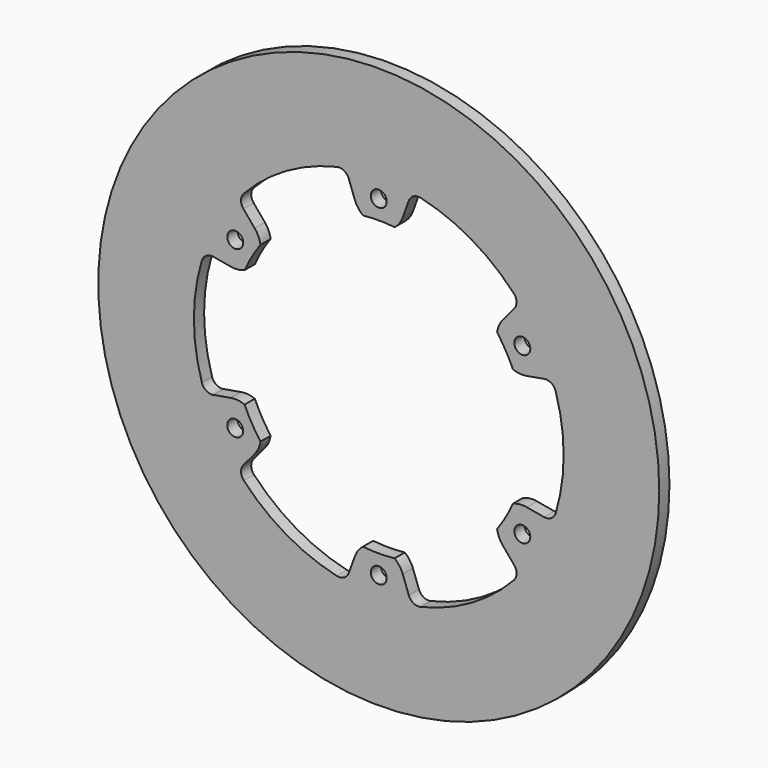
from build123d import *

# Parameters (mm, degrees)
F0_R     = 139.7
F0_R_2   = 3.96875
F1_DEPTH = 6.35


with BuildPart() as f1:
    # F0 (on Front) → F1 (new body)
    with BuildSketch(Plane.XZ):
        Circle(F0_R)
        with Locations((-71.490397, -41.275)):
            Circle(F0_R_2, mode=Mode.SUBTRACT)
        with Locations((0, -82.55)):
            Circle(F0_R_2, mode=Mode.SUBTRACT)
        with Locations((71.490397, -41.275)):
            Circle(F0_R_2, mode=Mode.SUBTRACT)
        with Locations((-71.490397, 41.275)):
            Circle(F0_R_2, mode=Mode.SUBTRACT)
        with BuildLine():
            ThreePointArc((-67.231483, 62.910519), (-46.0375, 79.739289), (-20.866366, 89.679431))
            ThreePointArc((-20.866366, 89.679431), (-17.294985, 89.198071), (-14.94148, 86.469063))
            Line((-14.94148, 86.469063), (-11.934096, 78.206344))
            ThreePointArc((-11.934096, 78.206344), (-10.300747, 75.121366), (-7.889211, 72.597596))
            ThreePointArc((-7.889211, 72.597596), (0, 73.025), (7.889211, 72.597596))
            ThreePointArc((7.889211, 72.597596), (10.300747, 75.121366), (11.934096, 78.206344))
            Line((11.934096, 78.206344), (14.94148, 86.469063))
            ThreePointArc((14.94148, 86.469063), (17.294985, 89.198071), (20.866366, 89.679431))
            ThreePointArc((20.866366, 89.679431), (46.0375, 79.739289), (67.231483, 62.910519))
            ThreePointArc((67.231483, 62.910519), (68.600303, 59.576932), (67.413665, 56.174233))
            Line((67.413665, 56.174233), (61.761633, 49.438403))
            ThreePointArc((61.761633, 49.438403), (59.906638, 46.481392), (58.926757, 43.131056))
            ThreePointArc((58.926757, 43.131056), (63.241505, 36.5125), (66.815968, 29.466541))
            ThreePointArc((66.815968, 29.466541), (70.207385, 28.639974), (73.695729, 28.767942))
            Line((73.695729, 28.767942), (82.355145, 30.29483))
            ThreePointArc((82.355145, 30.29483), (85.895288, 29.621139), (88.097849, 26.768912))
            ThreePointArc((88.097849, 26.768912), (92.075, 0), (88.097849, -26.768912))
            ThreePointArc((88.097849, -26.768912), (85.895288, -29.621139), (82.355145, -30.29483))
            Line((82.355145, -30.29483), (73.695729, -28.767942))
            ThreePointArc((73.695729, -28.767942), (70.207385, -28.639974), (66.815968, -29.466541))
            ThreePointArc((66.815968, -29.466541), (63.241505, -36.5125), (58.926757, -43.131056))
            ThreePointArc((58.926757, -43.131056), (59.906638, -46.481392), (61.761633, -49.438403))
            Line((61.761633, -49.438403), (67.413665, -56.174233))
            ThreePointArc((67.413665, -56.174233), (68.600303, -59.576932), (67.231483, -62.910519))
            ThreePointArc((67.231483, -62.910519), (46.0375, -79.739289), (20.866366, -89.679431))
            ThreePointArc((20.866366, -89.679431), (17.294985, -89.198071), (14.94148, -86.469063))
            Line((14.94148, -86.469063), (11.934096, -78.206344))
            ThreePointArc((11.934096, -78.206344), (10.300747, -75.121366), (7.889211, -72.597596))
            ThreePointArc((7.889211, -72.597596), (0, -73.025), (-7.889211, -72.597596))
            ThreePointArc((-7.889211, -72.597596), (-10.300747, -75.121366), (-11.934096, -78.206344))
            Line((-11.934096, -78.206344), (-14.94148, -86.469063))
            ThreePointArc((-14.94148, -86.469063), (-17.294985, -89.198071), (-20.866366, -89.679431))
            ThreePointArc((-20.866366, -89.679431), (-46.0375, -79.739289), (-67.231483, -62.910519))
            ThreePointArc((-67.231483, -62.910519), (-68.600303, -59.576932), (-67.413665, -56.174233))
            Line((-67.413665, -56.174233), (-61.761633, -49.438403))
            ThreePointArc((-61.761633, -49.438403), (-59.906638, -46.481392), (-58.926757, -43.131056))
            ThreePointArc((-58.926757, -43.131056), (-63.241505, -36.5125), (-66.815968, -29.466541))
            ThreePointArc((-66.815968, -29.466541), (-70.207385, -28.639974), (-73.695729, -28.767942))
            Line((-73.695729, -28.767942), (-82.355145, -30.29483))
            ThreePointArc((-82.355145, -30.29483), (-85.895288, -29.621139), (-88.097849, -26.768912))
            ThreePointArc((-88.097849, -26.768912), (-92.075, 0), (-88.097849, 26.768912))
            ThreePointArc((-88.097849, 26.768912), (-85.895288, 29.621139), (-82.355145, 30.29483))
            Line((-82.355145, 30.29483), (-73.695729, 28.767942))
            ThreePointArc((-73.695729, 28.767942), (-70.207385, 28.639974), (-66.815968, 29.466541))
            ThreePointArc((-66.815968, 29.466541), (-63.241505, 36.5125), (-58.926757, 43.131056))
            ThreePointArc((-58.926757, 43.131056), (-59.906638, 46.481392), (-61.761633, 49.438403))
            Line((-61.761633, 49.438403), (-67.413665, 56.174233))
            ThreePointArc((-67.413665, 56.174233), (-68.600303, 59.576932), (-67.231483, 62.910519))
        make_face(mode=Mode.SUBTRACT)
        with Locations((71.490397, 41.275)):
            Circle(F0_R_2, mode=Mode.SUBTRACT)
        with Locations((0, 82.55)):
            Circle(F0_R_2, mode=Mode.SUBTRACT)
    extrude(amount=F1_DEPTH)


solid = f1.part
